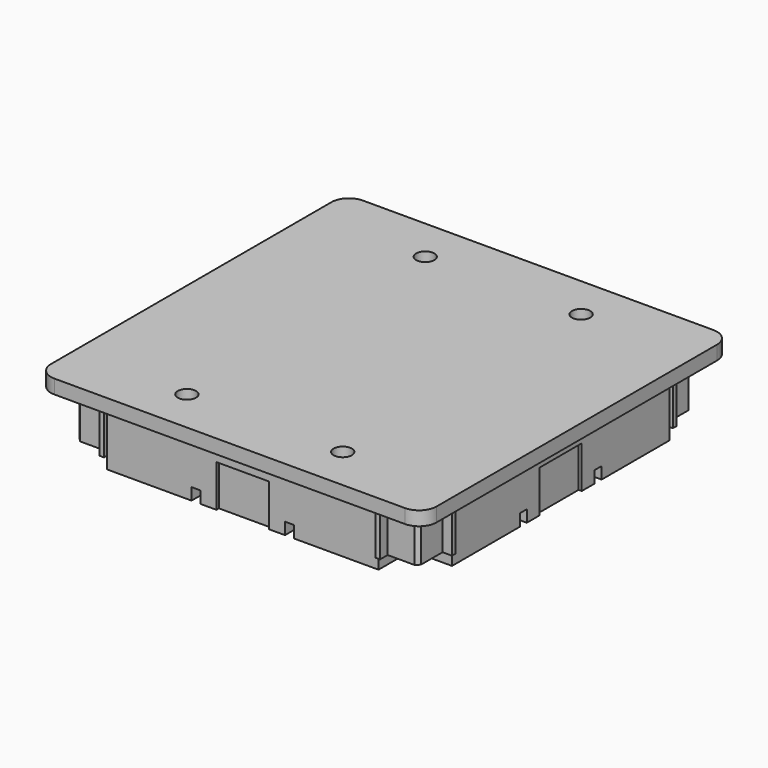
from build123d import *

# Parameters (mm, degrees)
PAD_DEPTH             = 4
PAD001_DEPTH          = 17
SKETCH002_W           = 2.5
SKETCH002_H           = 20
POCKET_DEPTH          = 3.4
POLARPATTERN_COUNT    = 4
SKETCH003_R           = 5
SKETCH003_W           = 44.642272
SKETCH003_H           = 44.642272
POCKET001_DEPTH       = 3.4
POLARPATTERN001_COUNT = 4
HOLE_D                = 5.2
HOLE_CBORE_D          = 10
HOLE_CBORE_DEPTH      = 13
SKETCH005_W           = 77.51
SKETCH005_H           = 1
POCKET002_DEPTH       = 19
POLARPATTERN002_COUNT = 4
CHAMFER_SIZE          = 1
SKETCH006_R           = 1.55
HOLE001_DEPTH         = 14.068666
HOLE001_TIPS_R        = 1.55
CHAMFER001_SIZE       = 1
CHAMFER001_FACE140_W  = 0.9
CHAMFER001_FACE140_H  = 15
PAD002_DEPTH          = 5
PAD002_FACE143_W      = 15
PAD002_FACE143_H      = 0.9
PAD003_DEPTH          = 5
PAD003_FACE75_W       = 15
PAD003_FACE75_H       = 0.9
PAD004_DEPTH          = 5
PAD004_FACE128_W      = 0.9
PAD004_FACE128_H      = 15
PAD005_DEPTH          = 5


with BuildPart() as part:
    # Sketch → Pad (new body)
    with BuildSketch(Plane.XY):
        with BuildLine():
            Line((-50, 55), (50, 55))
            ThreePointArc((55, 50), (53.535534, 53.535534), (50, 55))
            Line((55, 50), (55, -50))
            ThreePointArc((50, -55), (53.535534, -53.535534), (55, -50))
            Line((50, -55), (-50, -55))
            ThreePointArc((-55, -50), (-53.535534, -53.535534), (-50, -55))
            Line((-55, -50), (-55, 50))
            ThreePointArc((-50, 55), (-53.535534, 53.535534), (-55, 50))
        make_face()
    extrude(amount=PAD_DEPTH)

    # Sketch001 (on Face9 of Pad) → Pad001 (join)
    with BuildSketch(Plane(origin=(0, 0, 0), x_dir=(1, 0, 0), z_dir=(0, 0, -1))):
        Polygon((-51.4, 40), (-48.7, 40), (-48.7, 47.7), (-47.7, 48.7), (-40, 48.7), (-40, 51.4), (-7.5, 51.4), (-7.5, 49.5), (7.5, 49.5), (7.5, 51.4), (40, 51.4), (40, 48.7), (47.7, 48.7), (48.7, 47.7), (48.7, 40), (51.4, 40), (51.4, 7.5), (49.5, 7.5), (49.5, -7.5), (51.4, -7.5), (51.4, -40), (48.7, -40), (48.7, -47.7), (47.7, -48.7), (40, -48.7), (40, -51.4), (7.5, -51.4), (7.5, -49.5), (-7.5, -49.5), (-7.5, -51.4), (-40, -51.4), (-40, -48.7), (-47.7, -48.7), (-48.7, -47.7), (-48.7, -40), (-51.4, -40), (-51.4, -7.5), (-49.5, -7.5), (-49.5, 7.5), (-51.4, 7.5), align=None)
    extrude(amount=PAD001_DEPTH)

    # Sketch002 (on Face51 of Pad001) → Pocket (cut)
    with BuildSketch(Plane(origin=(0, 0, -17), x_dir=(1, 0, 0), z_dir=(0, 0, -1))):
        with Locations((-40.005, 56)):
            Rectangle(SKETCH002_W, SKETCH002_H)
        with Locations((-13.335, 56)):
            Rectangle(SKETCH002_W, SKETCH002_H)
        with Locations((13.335, 56)):
            Rectangle(SKETCH002_W, SKETCH002_H)
        with Locations((40.005, 56)):
            Rectangle(SKETCH002_W, SKETCH002_H)
    pocket = extrude(amount=-POCKET_DEPTH, mode=Mode.SUBTRACT)

    # PolarPattern: Pocket ×4 about axis
    polarpattern_axis = Axis((0, 0, 0), (0, 0, 1))
    for i in range(1, POLARPATTERN_COUNT):
        add(pocket.rotate(polarpattern_axis, i * 360 / POLARPATTERN_COUNT), mode=Mode.SUBTRACT)

    # Sketch003 (on Face52 of PolarPattern) → Pocket001 (cut)
    with BuildSketch(Plane(origin=(0, 0, -17), x_dir=(1, 0, 0), z_dir=(0, 0, -1))):
        with Locations((-26.67, 26.67)):
            Circle(SKETCH003_R)
        with Locations((-61.076136, 61.076136)):
            Rectangle(SKETCH003_W, SKETCH003_H)
    pocket001 = extrude(amount=-POCKET001_DEPTH, mode=Mode.SUBTRACT)

    # PolarPattern001: Pocket001 ×4 about axis
    polarpattern001_axis = Axis((0, 0, 0), (0, 0, 1))
    for i in range(1, POLARPATTERN001_COUNT):
        add(pocket001.rotate(polarpattern001_axis, i * 360 / POLARPATTERN001_COUNT), mode=Mode.SUBTRACT)

    # Hole (through all)
    with Locations(Plane(origin=(0, 0, -17), x_dir=(1, 0, 0), z_dir=(0, 0, -1))):
        with Locations((-22.225, 42.5), (22.225, 42.5), (22.225, -42.5), (-22.225, -42.5)):
            CounterBoreHole(HOLE_D / 2, HOLE_CBORE_D / 2, HOLE_CBORE_DEPTH)

    # Sketch005 (on Face56 of Hole) → Pocket002 (cut)
    with BuildSketch(Plane(origin=(0, 0, -17), x_dir=(1, 0, 0), z_dir=(0, 0, -1))):
        with Locations((0, 50.9)):
            Rectangle(SKETCH005_W, SKETCH005_H)
    pocket002 = extrude(amount=-POCKET002_DEPTH, mode=Mode.SUBTRACT)

    # PolarPattern002: Pocket002 ×4 about axis
    polarpattern002_axis = Axis((0, 0, 0), (0, 0, 1))
    for i in range(1, POLARPATTERN002_COUNT):
        add(pocket002.rotate(polarpattern002_axis, i * 360 / POLARPATTERN002_COUNT), mode=Mode.SUBTRACT)

    # Chamfer
    chamfer_edges = [part.edges().sort_by_distance(p)[0] for p in [
        (51.4, 0, 0),
        (0, -51.4, 0),
        (-51.4, 0, 0),
        (0, 51.4, 0),
    ]]
    chamfer(chamfer_edges, length=CHAMFER_SIZE)

    # Sketch006 (on Face75 of Chamfer) → Hole001 (cut)
    with BuildSketch(Plane(origin=(0, 0, -17), x_dir=(1, 0, 0), z_dir=(0, 0, -1))):
        with Locations((-44, 44)):
            Circle(SKETCH006_R)
        with Locations((44, 44)):
            Circle(SKETCH006_R)
        with Locations((44, -44)):
            Circle(SKETCH006_R)
        with Locations((-44, -44)):
            Circle(SKETCH006_R)
        Circle(SKETCH006_R)
    extrude(amount=-HOLE001_DEPTH, mode=Mode.SUBTRACT)

    # Hole001 tips → Hole001 tip 1 section 0
    with BuildSketch(Plane(origin=(0, 0, -2.931334), x_dir=(1, 0, 0), z_dir=(0, 0, -1)), mode=Mode.PRIVATE) as hole001_tip_1_s0:
        with Locations((-44, 44)):
            Circle(HOLE001_TIPS_R)
    loft([hole001_tip_1_s0.sketch, Vertex(-44, -44, -2)], mode=Mode.SUBTRACT)

    # Hole001 tips → Hole001 tip 2 section 0
    with BuildSketch(Plane(origin=(0, 0, -2.931334), x_dir=(1, 0, 0), z_dir=(0, 0, -1)), mode=Mode.PRIVATE) as hole001_tip_2_s0:
        with Locations((44, 44)):
            Circle(HOLE001_TIPS_R)
    loft([hole001_tip_2_s0.sketch, Vertex(44, -44, -2)], mode=Mode.SUBTRACT)

    # Hole001 tips → Hole001 tip 3 section 0
    with BuildSketch(Plane(origin=(0, 0, -2.931334), x_dir=(1, 0, 0), z_dir=(0, 0, -1)), mode=Mode.PRIVATE) as hole001_tip_3_s0:
        with Locations((44, -44)):
            Circle(HOLE001_TIPS_R)
    loft([hole001_tip_3_s0.sketch, Vertex(44, 44, -2)], mode=Mode.SUBTRACT)

    # Hole001 tips → Hole001 tip 4 section 0
    with BuildSketch(Plane(origin=(0, 0, -2.931334), x_dir=(1, 0, 0), z_dir=(0, 0, -1)), mode=Mode.PRIVATE) as hole001_tip_4_s0:
        with Locations((-44, -44)):
            Circle(HOLE001_TIPS_R)
    loft([hole001_tip_4_s0.sketch, Vertex(-44, 44, -2)], mode=Mode.SUBTRACT)

    # Hole001 tips → Hole001 tip 5 section 0
    with BuildSketch(Plane(origin=(0, 0, -2.931334), x_dir=(1, 0, 0), z_dir=(0, 0, -1)), mode=Mode.PRIVATE) as hole001_tip_5_s0:
        Circle(HOLE001_TIPS_R)
    loft([hole001_tip_5_s0.sketch, Vertex(0, 0, -2)], mode=Mode.SUBTRACT)

    # Chamfer001
    chamfer001_edges = [part.edges().sort_by_distance(p)[0] for p in [
        (1.55, 0, -17),
        (-42.45, 44, -13.6),
        (-42.45, -44, -13.6),
        (45.55, 44, -13.6),
        (45.55, -44, -13.6),
    ]]
    chamfer(chamfer001_edges, length=CHAMFER001_SIZE)

    # Chamfer001 Face140 → Pad002 (add)
    with BuildSketch(Plane(origin=(0, 49.95, 0), x_dir=(0, -1, 0), z_dir=(0, 0, -1))):
        Rectangle(CHAMFER001_FACE140_W, CHAMFER001_FACE140_H)
    extrude(amount=PAD002_DEPTH)

    # Pad002 Face143 → Pad003 (add)
    with BuildSketch(Plane(origin=(-49.95, 0, 0), x_dir=(0, -1, 0), z_dir=(0, 0, -1))):
        Rectangle(PAD002_FACE143_W, PAD002_FACE143_H)
    extrude(amount=PAD003_DEPTH)

    # Pad003 Face75 → Pad004 (add)
    with BuildSketch(Plane(origin=(49.95, 0, 0), x_dir=(0, -1, 0), z_dir=(0, 0, -1))):
        Rectangle(PAD003_FACE75_W, PAD003_FACE75_H)
    extrude(amount=PAD004_DEPTH)

    # Pad004 Face128 → Pad005 (add)
    with BuildSketch(Plane(origin=(0, -49.95, 0), x_dir=(0, -1, 0), z_dir=(0, 0, -1))):
        Rectangle(PAD004_FACE128_W, PAD004_FACE128_H)
    extrude(amount=PAD005_DEPTH)


solid = part.part
